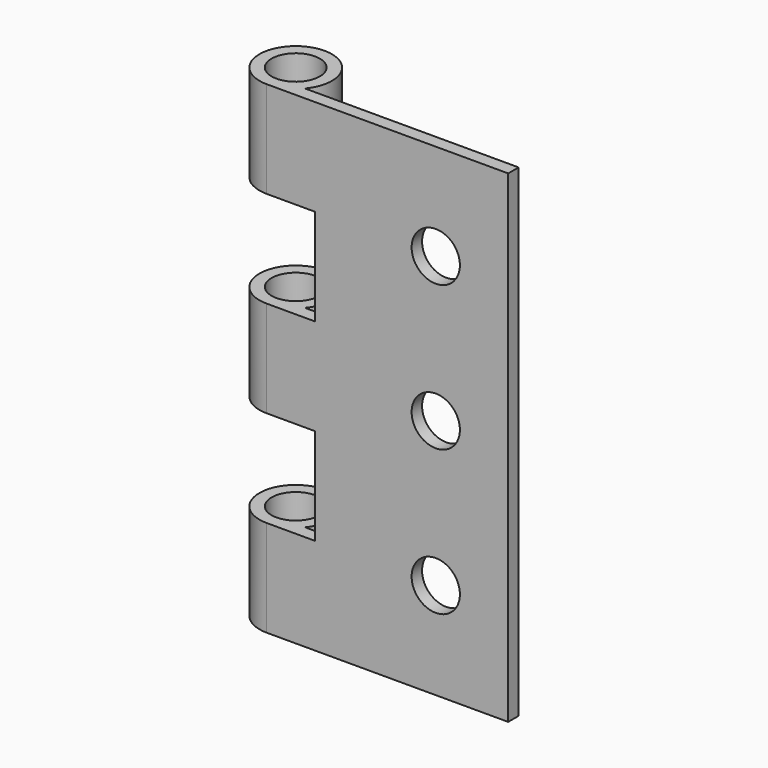
from build123d import *

# Parameters (mm, degrees)
F0_R     = 3.175
F0_W     = 9.525
F0_H     = 12.7
F1_DEPTH = 1.7145
F2_R     = 4.7625
F3_DEPTH = 63.5
F4_R     = 3.175
F5_DEPTH = 63.501
F6_W     = 12.38743
F6_H     = 12.7
F6_W_2   = 12.611339
F7_DEPTH = 25.4


with BuildPart() as f1:
    # F0 (on Front) → F1 (new body)
    with BuildSketch(Plane.XZ):
        Polygon((0, 12.7), (0, 0), (25.4, 0), (25.4, 63.5), (0, 63.5), (0, 50.8), (0, 38.1), (0, 25.4), align=None)
        with Locations((15.875, 12.7)):
            Circle(F0_R, mode=Mode.SUBTRACT)
        with Locations((15.875, 31.75)):
            Circle(F0_R, mode=Mode.SUBTRACT)
        with Locations((15.875, 50.8)):
            Circle(F0_R, mode=Mode.SUBTRACT)
        with Locations((-4.7625, 6.35)):
            Rectangle(F0_W, F0_H)
        with Locations((-4.7625, 31.75)):
            Rectangle(F0_W, F0_H)
        with Locations((-4.7625, 57.15)):
            Rectangle(F0_W, F0_H)
    extrude(amount=F1_DEPTH)

    # F2 (on face) → F3 (join)
    with BuildSketch(Plane.XY.offset(63.5)):
        with Locations((-6.35, 3.048)):
            Circle(F2_R)
    extrude(amount=-F3_DEPTH)

    # F4 (on face) → F5 (cut, through all)
    with BuildSketch(Plane.XY.offset(63.5)):
        with BuildLine():
            ThreePointArc((-6.35, -1.7145), (-8.049365, -1.400996), (-9.525, -0.501758))
            Line((-9.525, -0.501758), (-9.525, -1.7145))
            Line((-9.525, -1.7145), (-6.35, -1.7145))
        make_face()
        with Locations((-6.35, 3.048)):
            Circle(F4_R)
    extrude(amount=-F5_DEPTH, mode=Mode.SUBTRACT)

    # F6 (on face) → F7 (cut)
    with BuildSketch(Plane.XZ.offset(1.7145)):
        with Locations((-6.193715, 44.45)):
            Rectangle(F6_W, F6_H)
        with Locations((-6.305669, 19.05)):
            Rectangle(F6_W_2, F6_H)
    extrude(amount=-F7_DEPTH, mode=Mode.SUBTRACT)


solid = f1.part
